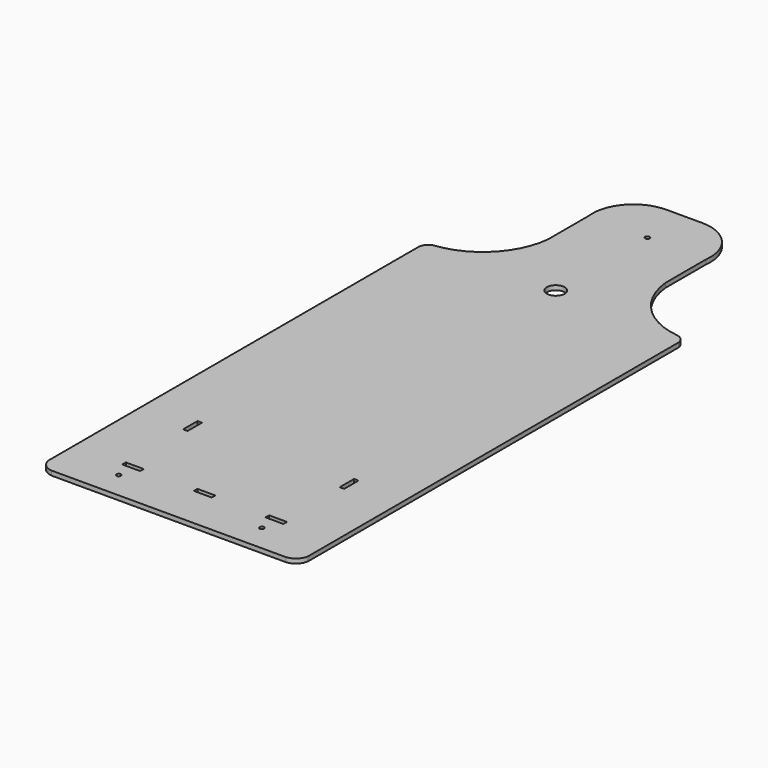
from build123d import *

# Parameters (mm, degrees)
F1_DEPTH = 12.7
F2_R     = 6.35
F3_DEPTH = 25.4
F4_R     = 6.35
F5_DEPTH = 25.4
F6_R     = 25.4
F7_DEPTH = 25.4
F8_W     = 50.8
F8_H     = 12.7
F8_H_2   = 12.700023
F8_W_2   = 12.7
F8_H_3   = 50.8
F9_DEPTH = 25.4


with BuildPart() as f1:
    # F0 (on Top) → F1 (new body)
    with BuildSketch(Plane.XY):
        with BuildLine():
            Line((-333.067566, -685.8), (333.067566, -685.8))
            ThreePointArc((333.067566, -685.8), (356.467306, -675.046359), (368.3, -652.173317))
            Line((368.3, -652.173317), (368.3, 662.494829))
            ThreePointArc((368.3, 662.494829), (360.848675, 678.418518), (345.550371, 687.081542))
            ThreePointArc((345.550371, 687.081542), (224.27561, 745.924123), (166.778415, 867.842495))
            Line((166.778415, 867.842495), (166.778415, 1012.140632))
            ThreePointArc((166.778415, 1012.140632), (138.228781, 1103.662105), (50.8, 1143))
            Line((50.8, 1143), (0, 1143))
            Line((0, 1143), (-50.8, 1143))
            ThreePointArc((-50.8, 1143), (-138.228781, 1103.662105), (-166.778415, 1012.140632))
            Line((-166.778415, 1012.140632), (-166.778415, 867.842495))
            ThreePointArc((-166.778415, 867.842495), (-224.27561, 745.924123), (-345.550371, 687.081542))
            ThreePointArc((-345.550371, 687.081542), (-360.848675, 678.418518), (-368.3, 662.494829))
            Line((-368.3, 662.494829), (-368.3, -652.173317))
            ThreePointArc((-368.3, -652.173317), (-356.467306, -675.046359), (-333.067566, -685.8))
        make_face()
    extrude(amount=F1_DEPTH)

    # F2 (on face) → F3 (cut)
    with BuildSketch(Plane.XY.offset(12.7)):
        with Locations((0, 1012.140632)):
            Circle(F2_R)
    extrude(amount=-F3_DEPTH, mode=Mode.SUBTRACT)

    # F4 (on face) → F5 (cut)
    with BuildSketch(Plane.XY.offset(12.7)):
        with Locations((-203.2, -609.6)):
            Circle(F4_R)
        with Locations((203.2, -609.6)):
            Circle(F4_R)
    extrude(amount=-F5_DEPTH, mode=Mode.SUBTRACT)

    # F6 (on face) → F7 (cut)
    with BuildSketch(Plane.XY.offset(12.7)):
        with Locations((0, 687.081542)):
            Circle(F6_R)
    extrude(amount=-F7_DEPTH, mode=Mode.SUBTRACT)

    # F8 (on face) → F9 (cut)
    with BuildSketch(Plane.XY.offset(12.7)):
        with Locations((0, -558.8)):
            Rectangle(F8_W, F8_H)
        with Locations((-203.2, -558.800011)):
            Rectangle(F8_W, F8_H_2)
        with Locations((203.2, -558.800011)):
            Rectangle(F8_W, F8_H_2)
        with Locations((-222.25, -323.85)):
            Rectangle(F8_W_2, F8_H_3)
        with Locations((222.25, -323.85)):
            Rectangle(F8_W_2, F8_H_3)
    extrude(amount=-F9_DEPTH, mode=Mode.SUBTRACT)


solid = f1.part
